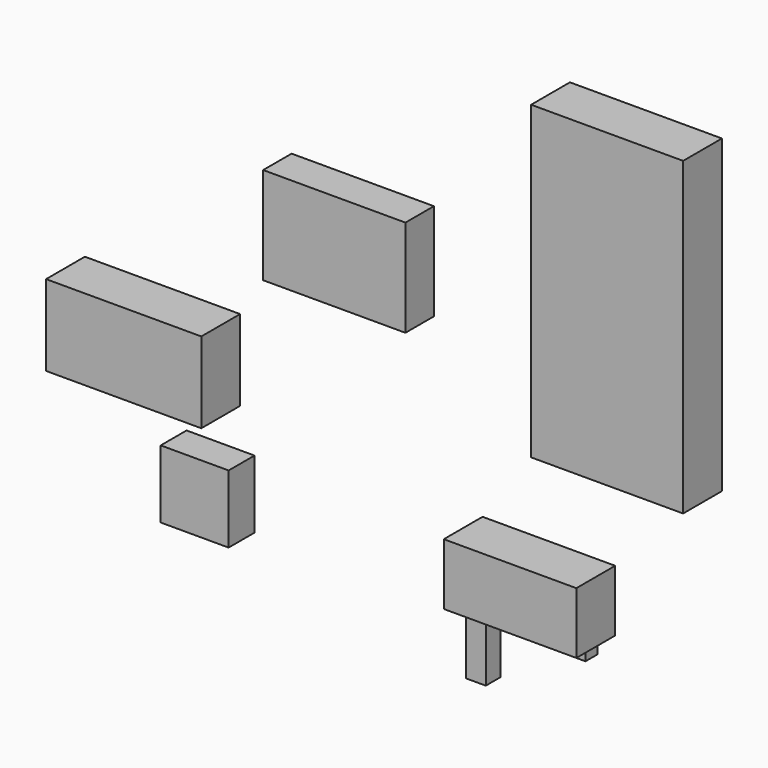
from build123d import *

# Parameters (mm, degrees)
F0_W      = 47
F0_H      = 96
F1_DEPTH  = 15
F2_W      = 44
F2_H      = 30
F3_DEPTH  = 11
F4_W      = 48
F4_H      = 25
F5_DEPTH  = 15
F6_W      = 21
F6_H      = 21
F7_DEPTH  = 10
F8_W      = 41
F8_H      = 19
F9_DEPTH  = 15
F10_W     = 6.169355
F10_H     = 5.625
F11_DEPTH = 20
F10_W_2   = 4.212758
F10_H_2   = 4.639322
F12_DEPTH = 5


with BuildPart() as f1:
    # F0 (on Front) → F1 (new body)
    with BuildSketch(Plane.XZ):
        with Locations((23.5, 48)):
            Rectangle(F0_W, F0_H)
    extrude(amount=F1_DEPTH)


with BuildPart() as f3:
    # F2 (on Front) → F3 (new body)
    with BuildSketch(Plane.XZ):
        with Locations((-64.063305, 33.602437)):
            Rectangle(F2_W, F2_H)
    extrude(amount=F3_DEPTH)


with BuildPart() as f5:
    # F4 (on face) → F5 (new body)
    with BuildSketch(Plane.XZ.offset(11)):
        with Locations((-117.185794, -5.415953)):
            Rectangle(F4_W, F4_H)
    extrude(amount=F5_DEPTH)


with BuildPart() as f7:
    # F6 (on Front) → F7 (new body)
    with BuildSketch(Plane.XZ):
        with Locations((-108.04075, -47.820325)):
            Rectangle(F6_W, F6_H)
    extrude(amount=F7_DEPTH)


with BuildPart() as f9:
    # F8 (on Front) → F9 (new body)
    with BuildSketch(Plane.XZ):
        with Locations((-6.512047, -40.55878)):
            Rectangle(F8_W, F8_H)
    extrude(amount=F9_DEPTH)

    # F10 (on face) → F11 (join)
    with BuildSketch(Plane(origin=(0, 0, -50.05878), x_dir=(1, 0, 0), z_dir=(0, 0, -1))):
        with Locations((-21.117086, 7.167339)):
            Rectangle(F10_W, F10_H)
    extrude(amount=F11_DEPTH)

    # F10 (on face) → F12 (join)
    with BuildSketch(Plane(origin=(0, 0, -50.05878), x_dir=(1, 0, 0), z_dir=(0, 0, -1))):
        with Locations((8.701811, 5.180339)):
            Rectangle(F10_W_2, F10_H_2)
    extrude(amount=F12_DEPTH)


solid = Compound([f1.part, f3.part, f5.part, f7.part, f9.part])
